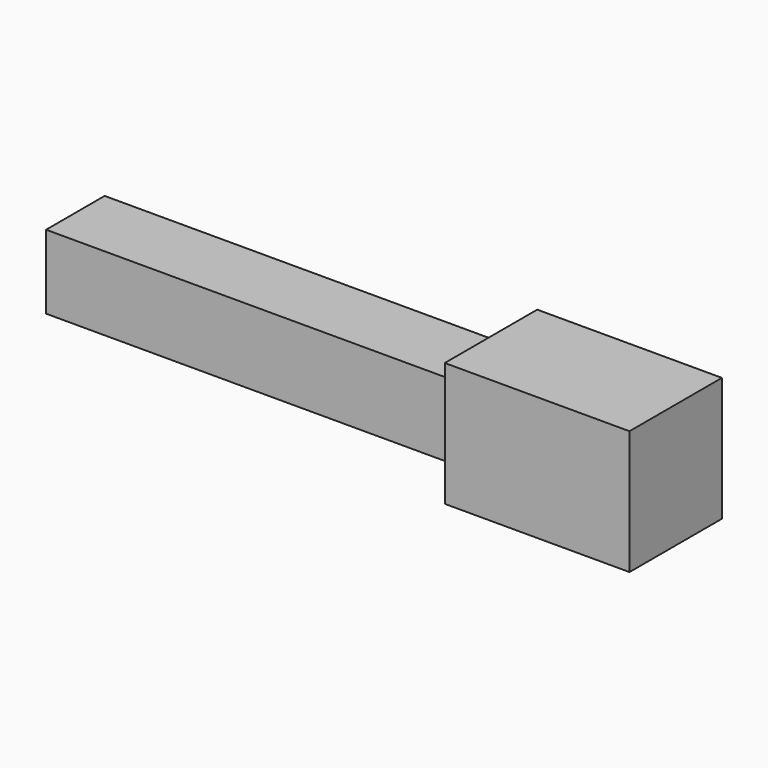
from build123d import *

# Parameters (mm, degrees)
F0_W     = 81.045844
F0_H     = 87.006435
F1_DEPTH = 129.564196
F2_W     = 51.355398
F2_H     = 51.861688
F3_DEPTH = 421.159267


with BuildPart() as f1:
    # F0 (on Right) → F1 (new body)
    with BuildSketch(Plane.YZ):
        with Locations((40.522922, 43.503217)):
            Rectangle(F0_W, F0_H)
    extrude(amount=F1_DEPTH)

    # F2 (on face) → F3 (join)
    with BuildSketch(Plane.YZ.offset(129.564196)):
        with Locations((40.588942, 42.482689)):
            Rectangle(F2_W, F2_H)
    extrude(amount=-F3_DEPTH)


solid = f1.part
